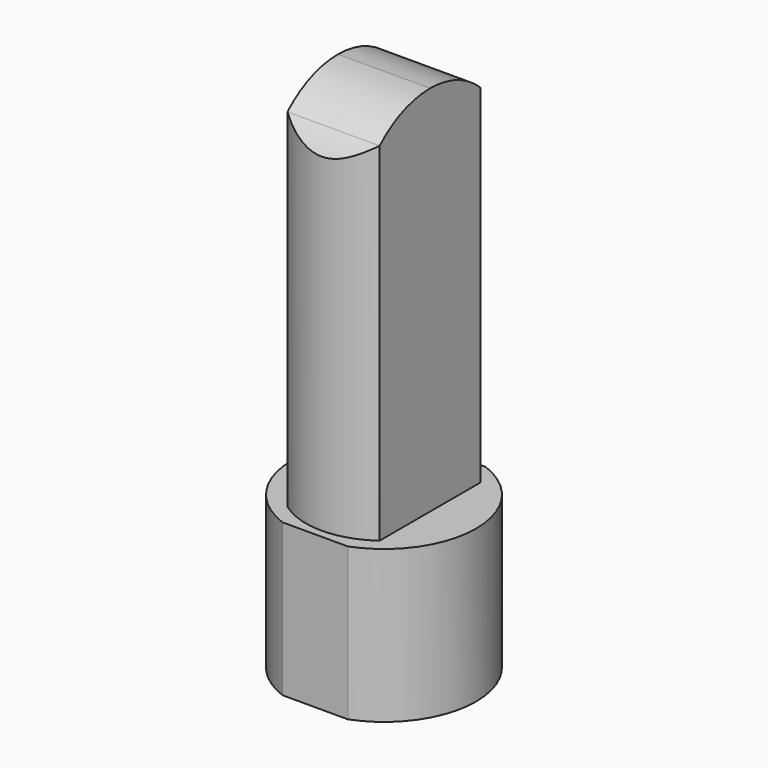
from build123d import *

# Parameters (mm, degrees)
F1_DEPTH = 38
F2_R     = 20.15
F3_DEPTH = 26
F5_DEPTH = 93
F7_DEPTH = 34.501


with BuildPart() as f1:
    # F0 (on Top) → F1 (new body)
    with BuildSketch(Plane.XY):
        with BuildLine():
            Line((8.170067, 21.5), (-8.170067, 21.5))
            ThreePointArc((-8.170067, 21.5), (-23, 0), (-8.170067, -21.5))
            Line((-8.170067, -21.5), (8.170067, -21.5))
            ThreePointArc((8.170067, -21.5), (23, 0), (8.170067, 21.5))
        make_face()
        with BuildLine():
            Line((8.170067, 21.5), (-8.170067, 21.5))
            ThreePointArc((-8.170067, 21.5), (-23, 0), (-8.170067, -21.5))
            Line((-8.170067, -21.5), (8.170067, -21.5))
            ThreePointArc((8.170067, -21.5), (23, 0), (8.170067, 21.5))
        make_face()
    extrude(amount=F1_DEPTH)

    # F2 (on face) → F3 (cut)
    with BuildSketch(Plane(origin=(0, 0, 0), x_dir=(1, 0, 0), z_dir=(0, 0, -1))):
        Circle(F2_R)
    extrude(amount=-F3_DEPTH, mode=Mode.SUBTRACT)

    # F4 (on face) → F5 (join)
    with BuildSketch(Plane.XY.offset(38)):
        with BuildLine():
            Line((-11.5, 15.748016), (-11.5, -15.748016))
            ThreePointArc((-11.5, -15.748016), (0, -19.5), (11.5, -15.748016))
            Line((11.5, -15.748016), (11.5, 15.748016))
            ThreePointArc((11.5, 15.748016), (0, 19.5), (-11.5, 15.748016))
        make_face()
    extrude(amount=F5_DEPTH)

    # F6 (on face) → F7 (cut, through all)
    with BuildSketch(Plane.YZ.offset(11.5)):
        with BuildLine():
            ThreePointArc((15.748016, 124.763055), (18.774309, 121.286284), (21.046563, 117.275892))
            Line((21.046563, 117.275892), (34.087088, 153.617024))
            Line((34.087088, 153.617024), (-12.184457, 165.916339))
            Line((-12.184457, 165.916339), (-50.20852, 126.097038))
            Line((-50.20852, 126.097038), (-22.758055, 111.327304))
            ThreePointArc((-22.758055, 111.327304), (-20.3914, 118.639116), (-15.748016, 124.763055))
            Line((-15.748016, 124.763055), (-15.748016, 131))
            Line((-15.748016, 131), (0, 131))
            Line((0, 131), (15.748016, 131))
            Line((15.748016, 131), (15.748016, 124.763055))
        make_face()
        with BuildLine():
            ThreePointArc((0, 131), (8.469054, 129.383992), (15.748016, 124.763055))
            Line((15.748016, 124.763055), (15.748016, 131))
            Line((15.748016, 131), (0, 131))
        make_face()
        with BuildLine():
            ThreePointArc((-15.748016, 124.763055), (-8.469054, 129.383992), (0, 131))
            Line((0, 131), (-15.748016, 131))
            Line((-15.748016, 131), (-15.748016, 124.763055))
        make_face()
    extrude(amount=-F7_DEPTH, mode=Mode.SUBTRACT)


solid = f1.part
